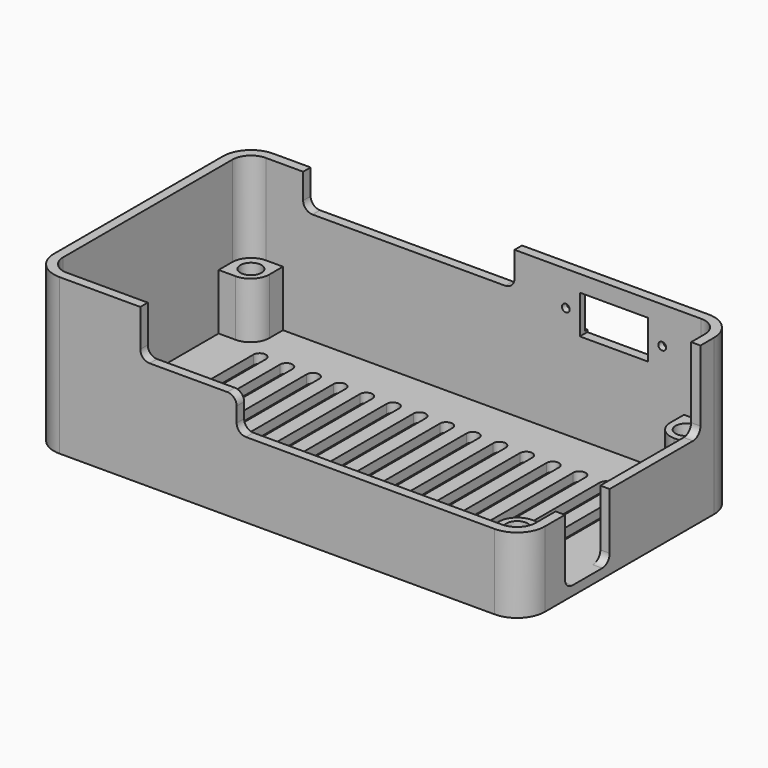
from build123d import *

# Parameters (mm, degrees)
PAD_DEPTH           = 25
POCKET_DEPTH        = 23.5
PAD001_DEPTH        = 9
SKETCH003_R         = 1.7
POCKET001_DEPTH     = 6
POCKET002_DEPTH     = 5
SKETCH005_W         = 20
SKETCH005_H         = 5.5
POCKET003_DEPTH     = 0.5
SKETCH006_R         = 0.625
SKETCH006_W         = 11
SKETCH006_H         = 6.2
POCKET004_DEPTH     = 5
POCKET005_DEPTH     = 5
POCKET006_DEPTH     = 25.001
LINEARPATTERN_COUNT = 15
LINEARPATTERN_PITCH = 4.285714
POCKET007_DEPTH     = 5


with BuildPart() as part:
    # Sketch → Pad (new body)
    with BuildSketch(Plane.XY):
        with BuildLine():
            Line((-35, 21.5), (35, 21.5))
            ThreePointArc((39.5, 17), (38.181981, 20.181981), (35, 21.5))
            Line((39.5, 17), (39.5, -17))
            ThreePointArc((35, -21.5), (38.181981, -20.181981), (39.5, -17))
            Line((35, -21.5), (-35, -21.5))
            ThreePointArc((-39.5, -17), (-38.181981, -20.181981), (-35, -21.5))
            Line((-39.5, -17), (-39.5, 17))
            ThreePointArc((-35, 21.5), (-38.181981, 20.181981), (-39.5, 17))
        make_face()
    extrude(amount=PAD_DEPTH)

    # Sketch001 (on Face10 of Pad) → Pocket (cut)
    with BuildSketch(Plane.XY.offset(25)):
        with BuildLine():
            Line((35, 20), (-35, 20))
            ThreePointArc((-35, 20), (-37.12132, 19.12132), (-38, 17))
            Line((-38, 17), (-38, -17))
            ThreePointArc((-38, -17), (-37.12132, -19.12132), (-35, -20))
            Line((-35, -20), (35, -20))
            ThreePointArc((35, -20), (37.12132, -19.12132), (38, -17))
            Line((38, -17), (38, 17))
            ThreePointArc((38, 17), (37.12132, 19.12132), (35, 20))
        make_face()
    extrude(amount=-POCKET_DEPTH, mode=Mode.SUBTRACT)

    # Sketch002 (on Face19 of Pocket) → Pad001 (join)
    with BuildSketch(Plane.XY.offset(1.5)):
        with BuildLine():
            Line((-35, 20), (-32.25, 20))
            Line((-32.25, 20), (-32.25, 17.25))
            ThreePointArc((-35.25, 14.25), (-33.12868, 15.12868), (-32.25, 17.25))
            Line((-35.25, 14.25), (-38, 14.25))
            Line((-38, 14.25), (-38, 17))
            ThreePointArc((-35, 20), (-37.12132, 19.12132), (-38, 17))
        make_face()
        with BuildLine():
            Line((35, 20), (32.25, 20))
            Line((32.25, 20), (32.25, 17.25))
            ThreePointArc((32.25, 17.25), (33.12868, 15.12868), (35.25, 14.25))
            Line((35.25, 14.25), (38, 14.25))
            Line((38, 14.25), (38, 17))
            ThreePointArc((38, 17), (37.12132, 19.12132), (35, 20))
        make_face()
        with BuildLine():
            Line((-38, -14.25), (-35.25, -14.25))
            ThreePointArc((-32.25, -17.25), (-33.12868, -15.12868), (-35.25, -14.25))
            Line((-32.25, -17.25), (-32.25, -20))
            Line((-32.25, -20), (-35, -20))
            ThreePointArc((-38, -17), (-37.12132, -19.12132), (-35, -20))
            Line((-38, -17), (-38, -14.25))
        make_face()
        with BuildLine():
            Line((35.25, -14.25), (38, -14.25))
            Line((38, -14.25), (38, -17))
            ThreePointArc((35, -20), (37.12132, -19.12132), (38, -17))
            Line((35, -20), (32.25, -20))
            Line((32.25, -20), (32.25, -17.25))
            ThreePointArc((35.25, -14.25), (33.12868, -15.12868), (32.25, -17.25))
        make_face()
    extrude(amount=PAD001_DEPTH)

    # Sketch003 (on Face19 of Pad001) → Pocket001 (cut)
    with BuildSketch(Plane.XY.offset(10.5)):
        with Locations((-35, 17)):
            Circle(SKETCH003_R)
        with Locations((-35, -17)):
            Circle(SKETCH003_R)
        with Locations((35, -17)):
            Circle(SKETCH003_R)
        with Locations((35, 17)):
            Circle(SKETCH003_R)
    extrude(amount=-POCKET001_DEPTH, mode=Mode.SUBTRACT)

    # Sketch004 (on Face6 of Pocket001) → Pocket002 (cut)
    with BuildSketch(Plane.XZ.offset(21.5)):
        with BuildLine():
            Line((-22, 25), (39.5, 25))
            Line((39.5, 12.1), (39.5, 25))
            Line((-5, 12.1), (39.5, 12.1))
            ThreePointArc((-6.5, 13.6), (-6.06066, 12.53934), (-5, 12.1))
            Line((-6.5, 16), (-6.5, 13.6))
            ThreePointArc((-6.5, 16), (-6.93934, 17.06066), (-8, 17.5))
            Line((-20.5, 17.5), (-8, 17.5))
            ThreePointArc((-22, 19), (-21.56066, 17.93934), (-20.5, 17.5))
            Line((-22, 19), (-22, 25))
        make_face()
    extrude(amount=-POCKET002_DEPTH, mode=Mode.SUBTRACT)

    # Sketch005 (on Face7 of Pocket002) → Pocket003 (cut)
    with BuildSketch(Plane(origin=(0, 21.5, 0), x_dir=(-1, 0, 0), z_dir=(0, 1, 0))):
        with Locations((-21, 19.25)):
            Rectangle(SKETCH005_W, SKETCH005_H)
    extrude(amount=-POCKET003_DEPTH, mode=Mode.SUBTRACT)

    # Sketch006 (on Face7 of Pocket003) → Pocket004 (cut)
    with BuildSketch(Plane(origin=(0, 21.5, 0), x_dir=(-1, 0, 0), z_dir=(0, 1, 0))):
        with Locations((-13.25, 19.425)):
            Circle(SKETCH006_R)
        with Locations((-28.75, 19.075)):
            Circle(SKETCH006_R)
        with Locations((-21, 19.25)):
            Rectangle(SKETCH006_W, SKETCH006_H)
    extrude(amount=-POCKET004_DEPTH, mode=Mode.SUBTRACT)

    # Sketch007 (on Face9 of Pocket004) → Pocket005 (cut)
    with BuildSketch(Plane.YZ.offset(39.5)):
        with BuildLine():
            Line((-11.5, 1.5), (-5.5, 1.5))
            ThreePointArc((-5.5, 1.5), (-4.43934, 1.93934), (-4, 3))
            Line((-4, 3), (-4, 12.1))
            Line((-4, 12.1), (12.75, 12.1))
            ThreePointArc((12.75, 12.1), (13.81066, 12.53934), (14.25, 13.6))
            Line((14.25, 13.6), (14.25, 25))
            Line((14.25, 25), (-16.5, 25))
            Line((-16.5, 12.1), (-16.5, 25))
            Line((-13, 12.1), (-16.5, 12.1))
            Line((-13, 3), (-13, 12.1))
            ThreePointArc((-13, 3), (-12.56066, 1.93934), (-11.5, 1.5))
        make_face()
    extrude(amount=-POCKET005_DEPTH, mode=Mode.SUBTRACT)

    # Sketch008 (on Face4 of Pocket005) → Pocket006 (cut, through all)
    with BuildSketch(Plane(origin=(0, 0, 0), x_dir=(1, 0, 0), z_dir=(0, 0, -1))):
        with BuildLine():
            ThreePointArc((-29, 12.5), (-30, 13.5), (-31, 12.5))
            Line((-31, 12.5), (-31, -12.5))
            ThreePointArc((-31, -12.5), (-30, -13.5), (-29, -12.5))
            Line((-29, -12.5), (-29, 12.5))
        make_face()
    pocket006 = extrude(amount=-POCKET006_DEPTH, mode=Mode.SUBTRACT)

    # LinearPattern: Pocket006 ×15
    with Locations(*[(i * LINEARPATTERN_PITCH, 0, 0) for i in range(1, LINEARPATTERN_COUNT)]):
        add(pocket006, mode=Mode.SUBTRACT)

    # Sketch009 (on Face7 of LinearPattern) → Pocket007 (cut)
    with BuildSketch(Plane(origin=(0, 21.5, 0), x_dir=(-1, 0, 0), z_dir=(0, 1, 0))):
        with BuildLine():
            Line((-5, 25), (29, 25))
            Line((29, 25), (29, 20.925))
            ThreePointArc((27.5, 19.425), (28.56066, 19.86434), (29, 20.925))
            Line((27.5, 19.425), (-3.5, 19.425))
            ThreePointArc((-5, 20.925), (-4.56066, 19.86434), (-3.5, 19.425))
            Line((-5, 20.925), (-5, 25))
        make_face()
    extrude(amount=-POCKET007_DEPTH, mode=Mode.SUBTRACT)


solid = part.part
